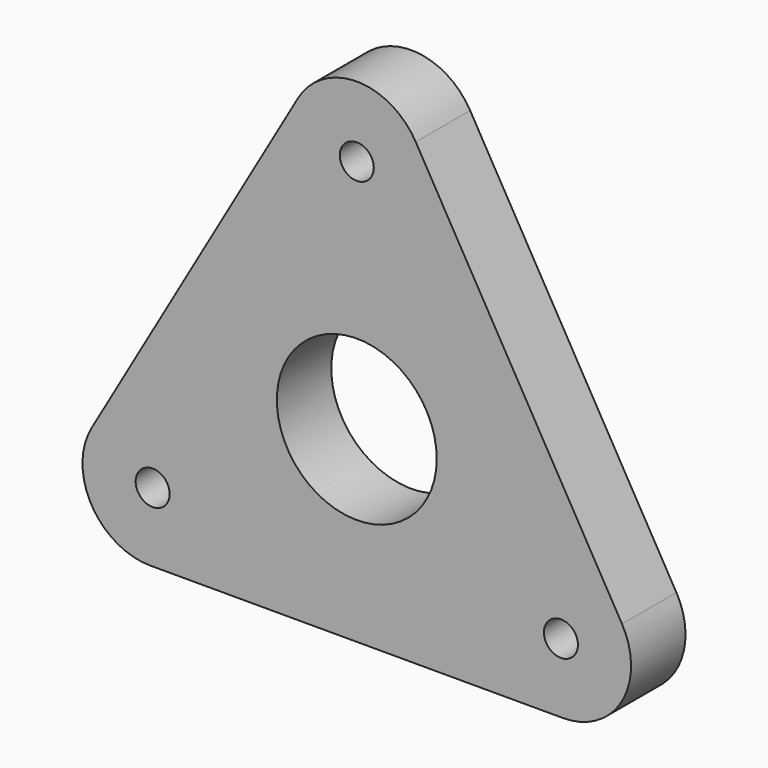
from build123d import *

# Parameters (mm, degrees)
F0_R     = 2.5
F0_R_2   = 11.75
F1_DEPTH = 10


with BuildPart() as f1:
    # F0 (on Front) → F1 (new body)
    with BuildSketch(Plane.XZ):
        with BuildLine():
            Line((-30.310889, -27.5), (30.310889, -27.5))
            ThreePointArc((30.310889, -27.5), (38.971143, -22.5), (38.971143, -12.5))
            Line((38.971143, -12.5), (8.660254, 40))
            ThreePointArc((8.660254, 40), (0, 45), (-8.660254, 40))
            Line((-8.660254, 40), (-38.971143, -12.5))
            ThreePointArc((-38.971143, -12.5), (-38.971143, -22.5), (-30.310889, -27.5))
        make_face()
        with Locations((-30, -17.321524)):
            Circle(F0_R, mode=Mode.SUBTRACT)
        with Locations((30, -17.321524)):
            Circle(F0_R, mode=Mode.SUBTRACT)
        Circle(F0_R_2, mode=Mode.SUBTRACT)
        with Locations((0, 34.64)):
            Circle(F0_R, mode=Mode.SUBTRACT)
    extrude(amount=F1_DEPTH)


solid = f1.part
